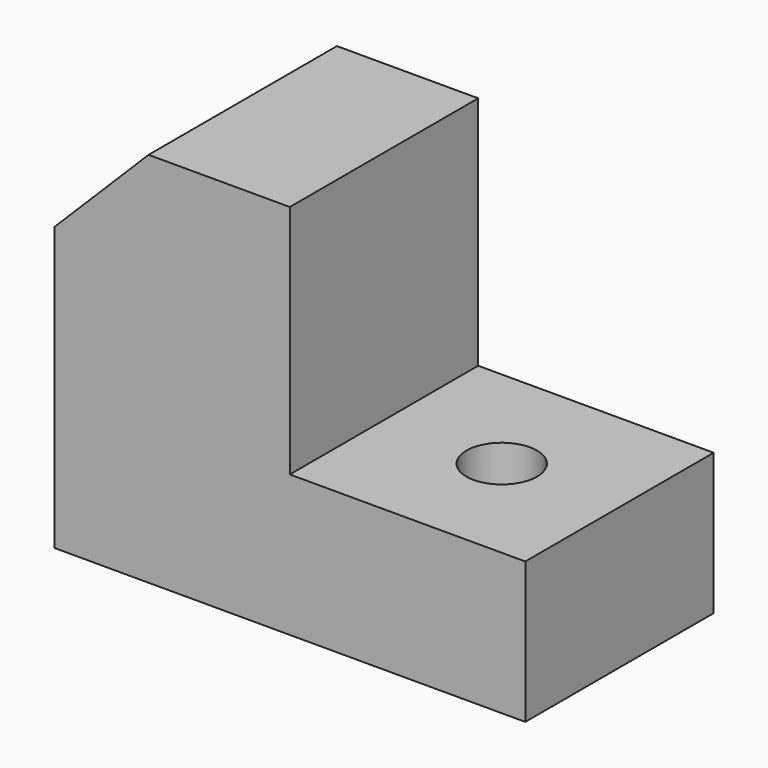
from build123d import *

# Parameters (mm, degrees)
F0_W     = 100
F0_H     = 50
F1_DEPTH = 80
F2_W     = 50
F2_H     = 50
F3_DEPTH = 50
F4_SIZE  = 20
F5_R     = 7.5
F6_DEPTH = 30


with BuildPart() as f1:
    # F0 (on Top) → F1 (new body)
    with BuildSketch(Plane.XY):
        with Locations((5.763268, -25.05821)):
            Rectangle(F0_W, F0_H)
    extrude(amount=F1_DEPTH)

    # F2 (on face) → F3 (cut, through all)
    with BuildSketch(Plane.XZ.offset(50.05821)):
        with Locations((30.763268, 55)):
            Rectangle(F2_W, F2_H)
    extrude(amount=-F3_DEPTH, mode=Mode.SUBTRACT)

    # F4
    f4_edges = [f1.edges().sort_by_distance(p)[0] for p in [
        (-44.236732, -25.05821, 80),
    ]]
    chamfer(f4_edges, length=F4_SIZE)

    # F5 (on face) → F6 (cut, through all)
    with BuildSketch(Plane.XY.offset(30)):
        with Locations((30.763268, -25.05821)):
            Circle(F5_R)
    extrude(amount=-F6_DEPTH, mode=Mode.SUBTRACT)


solid = f1.part
